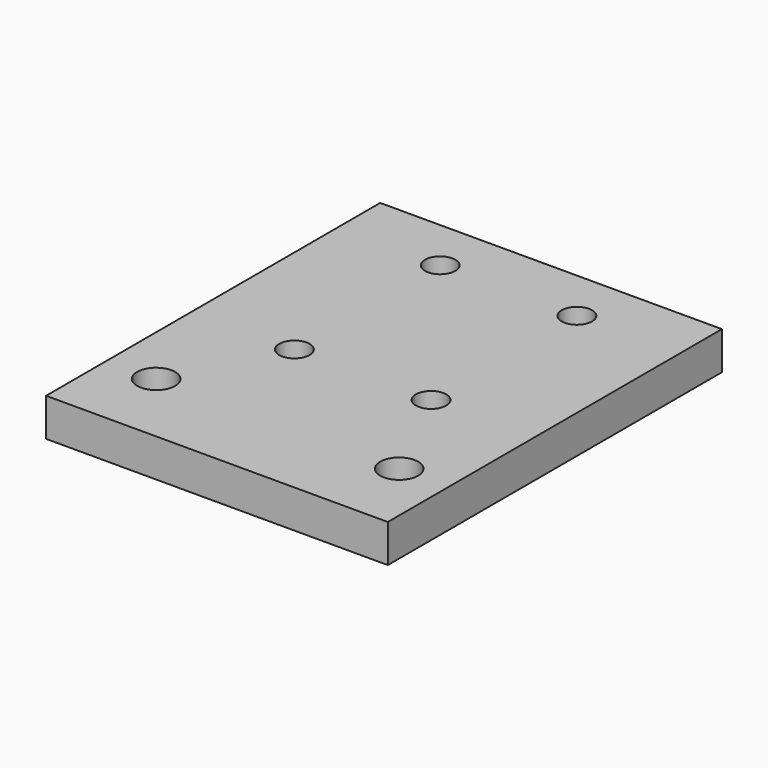
from build123d import *

# Parameters (mm, degrees)
F0_W     = 45
F0_H     = 55
F1_DEPTH = 5
F2_R     = 2
F2_R_2   = 2.5
F3_DEPTH = 5.001


with BuildPart() as f1:
    # F0 (on Top) → F1 (new body)
    with BuildSketch(Plane.XY):
        Rectangle(F0_W, F0_H)
    extrude(amount=F1_DEPTH)

    # F2 (on face) → F3 (cut, through all)
    with BuildSketch(Plane.XY.offset(5)):
        with Locations((-9, 20.5)):
            Circle(F2_R)
        with Locations((9, 20.5)):
            Circle(F2_R)
        with Locations((-9, -3.5)):
            Circle(F2_R)
        with Locations((-16, -17.5)):
            Circle(F2_R_2)
        with Locations((9, -3.5)):
            Circle(F2_R)
        with Locations((16, -17.5)):
            Circle(F2_R_2)
    extrude(amount=-F3_DEPTH, mode=Mode.SUBTRACT)


solid = f1.part
